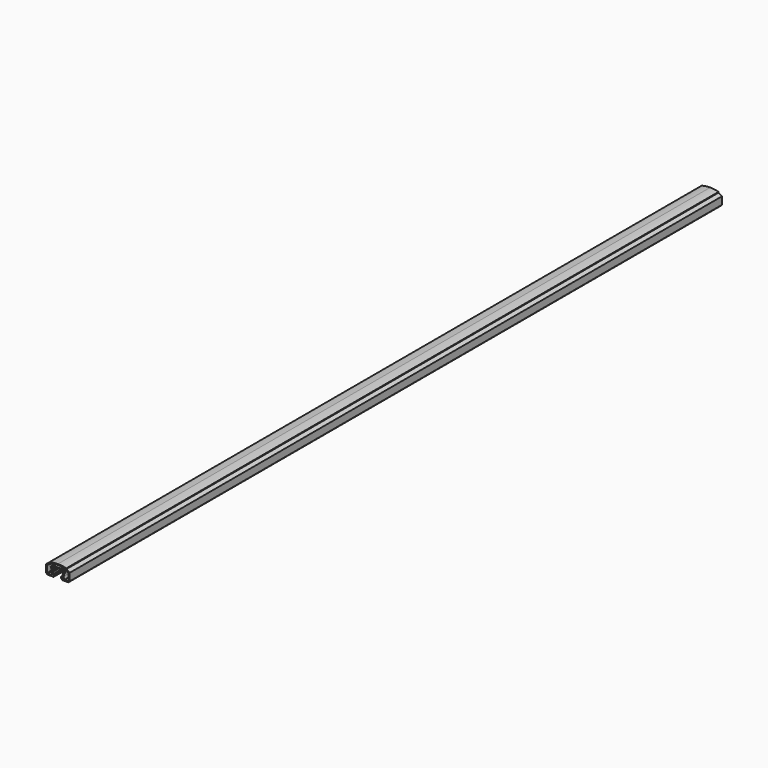
from build123d import *

# Parameters (mm, degrees)
F1_DEPTH = 1800


with BuildPart() as f1:
    # F0 (on Front) → F1 (new body)
    with BuildSketch(Plane.XZ):
        with BuildLine():
            Line((-7.9969227636, -2.2478350473), (-7.9969227636, 0.7932551553))
            Line((-7.9969227636, 0.7932551553), (0.0459905117, 0.7932551553))
            Line((0.0459905117, 0.7932551553), (0.0459905117, 2.3800082379))
            Line((0.0459905117, 2.3800082379), (-9.0970324447, 2.3800082379))
            ThreePointArc((-9.0970324447, 2.3800082379), (-9.6336982741, 1.8433424086), (-10.1703641034, 2.3800082379))
            Line((-10.1703641034, 2.3800082379), (-12.3701348422, 2.3800082379))
            ThreePointArc((-12.3701348422, 2.3800082379), (-13.2595523658, 1.4905907143), (-12.3701348422, 0.6011731907))
            add(Edge.make_bspline(
                [(-12.3701348422, 0.6011731907), (-12.1228129616, 0.5691521849), (-11.5433422221, 0.4941275414), (-10.6924791091, 0.1800355097), (-10.2047699068, 0)],
                knots=[0, 0, 0, 0, 0.4268065041, 1, 1, 1, 1], degree=3))
            ThreePointArc((-10.2047699068, 0), (-11.1152235093, -2.6837504686), (-13.3740623856, -0.9722922392))
            Line((-13.3740623856, -0.9722922392), (-15.6857306961, -0.9722922392))
            ThreePointArc((-15.6857306961, -0.9722922392), (-15.1946820558, -3.2760979159), (-13.532761484, -4.945429931))
            Line((-13.532761484, -4.945429931), (-13.532761484, -10.7581925882))
            Line((-13.532761484, -10.7581925882), (-12.4391342032, -10.7581925882))
            Line((-12.4391342032, -10.7581925882), (-14.3639348651, -16.9839935943))
            Line((-14.3639348651, -16.9839935943), (-22.429763532, -16.9839935943))
            Line((-22.429763532, -16.9839935943), (-23.5754768726, -15.8841076624))
            Line((-23.5754768726, -15.8841076624), (-23.5754768726, -0.9898235486))
            add(Edge.make_bspline(
                [(-23.5754768726, -0.9898235486), (-22.6586938501, -0.2180588848), (-20.7184800237, 1.4152484897), (-18.0593931921, 2.7805943387), (-16.6567687304, 3.5007917628)],
                knots=[0, 0, 0, 0, 0.4725164876, 1, 1, 1, 1], degree=3))
            Line((-16.6567687304, 3.5007917628), (-16.6567687304, 4.5798297725))
            add(Edge.make_bspline(
                [(-16.6567687304, 4.5798297725), (-15.6710688835, 5.0009508786), (-13.1703865293, 6.0693188227), (-4.3758690531, 7.0085577977), (-1.2828857884, 7.1027256627), (0, 7.1417839457)],
                knots=[0, 0, 0, 0, 0.2757658405, 0.6996072623, 1, 1, 1, 1], degree=3))
            Line((0, 7.1417839457), (0, 9.1037720633))
            add(Edge.make_bspline(
                [(-18.582212805, 6.7057863363), (-17.2868311529, 7.1005286698), (-14.210807771, 8.0378868962), (-5.7227418129, 9.0912644328), (-1.7804404056, 9.0998807309), (0, 9.1037720633)],
                knots=[0, 0, 0, 0, 0.2851690949, 0.6771647586, 1, 1, 1, 1], degree=3))
            Line((-18.582212805, 6.7057863363), (-18.582212805, 5.1303458482))
            add(Edge.make_bspline(
                [(-26, 0.4100030183), (-25.3422499449, 0.9811093773), (-23.9006086818, 2.2328470038), (-20.3903638593, 4.1574315556), (-19.1135432108, 4.8444521754), (-18.582212805, 5.1303458482)],
                knots=[0, 0, 0, 0, 0.3288189571, 0.7206977375, 1, 1, 1, 1], degree=3))
            Line((-26, 0.4100030183), (-26, -16.1727615082))
            Line((-26, -16.1727615082), (-23.2389877654, -19.0067448447))
            Line((-23.2389877654, -19.0067448447), (-9.4540094883, -19.0067448447))
            Line((-9.4540094883, -19.0067448447), (-9.4540094883, -16.8500962567))
            Line((-9.4540094883, -16.8500962567), (-7.3556309386, -16.8500962567))
            Line((-7.3556309386, -16.8500962567), (-6.5869867008, -13.5773369376))
            Line((-6.5869867008, -13.5773369376), (-10.3717816277, -14.9546653609))
            Line((-10.3717816277, -14.9546653609), (-11.4617745264, -14.9546653609))
            Line((-11.4617745264, -14.9546653609), (-9.8267851783, -8.469206826))
            Line((-9.8267851783, -8.469206826), (-11.4617745264, -8.469206826))
            Line((-11.4617745264, -8.469206826), (-11.4617745264, -4.945429931))
            Line((-11.4617745264, -4.945429931), (-6.6061029203, -4.945429931))
            Line((-6.6061029203, -4.945429931), (-5.2958418371, -2.2478350473))
            Line((-5.2958418371, -2.2478350473), (-7.9969227636, -2.2478350473))
        make_face()
        with BuildLine():
            Line((-15.6857306961, -0.9722922392), (-13.3740623856, -0.9722922392))
            ThreePointArc((-13.3740623856, -0.9722922392), (-14.5298965409, 0.1959221176), (-15.6857306961, -0.9722922392))
        make_face()
    extrude(amount=F1_DEPTH)

    # F2: F1 across plane


with BuildPart() as f1_1:
    add(f1.part)
    add(f1.part.mirror(Plane.YZ))


solid = f1_1.part
